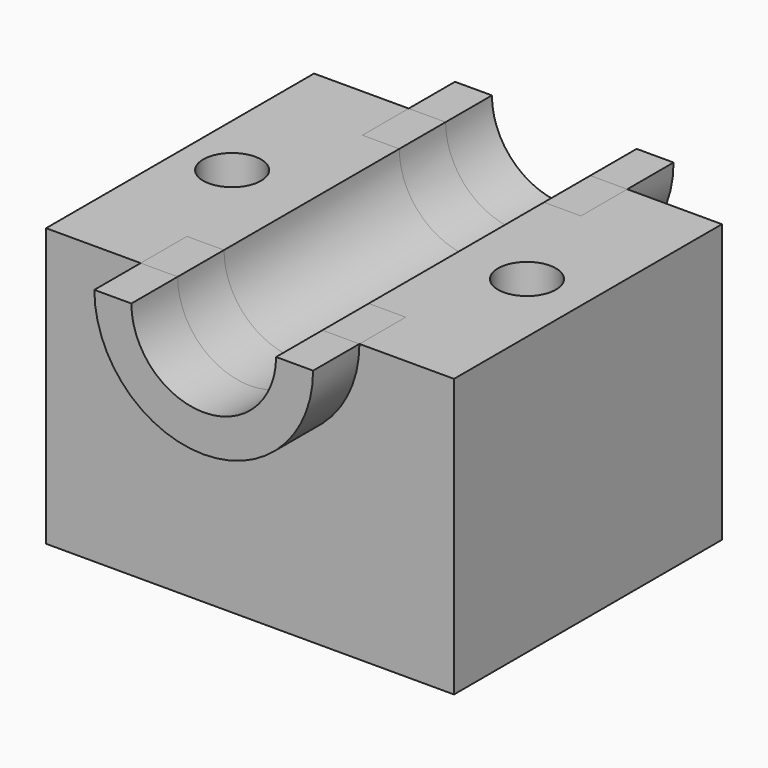
from build123d import *

# Parameters (mm, degrees)
F0_W     = 89.4885361195
F0_H     = 73.4741464257
F1_DEPTH = 60.96
F3_D     = 12.7
F5_D     = 31.75
F7_DEPTH = 12.7
F9_DEPTH = 12.7


with BuildPart() as f1:
    # F0 (on Top) → F1 (new body)
    with BuildSketch(Plane.XY):
        Rectangle(F0_W, F0_H)
    extrude(amount=F1_DEPTH)

    # F3 (through all)
    with Locations(Plane(origin=(0, 0, 0), x_dir=(1, 0, 0), z_dir=(0, 0, -1))):
        with Locations((-33.3142690361, 0), (31.3628092408, 0)):
            Hole(F3_D / 2)

    # F5 (through all)
    with Locations(Plane.XZ.offset(36.7370732129)):
        with Locations((0, 60.96)):
            Hole(F5_D / 2)

    # F6 (on face) → F7 (join, symmetric)
    with BuildSketch(Plane.XZ.offset(36.7370732129)):
        with BuildLine():
            Line((-15.875, 60.96), (-23.9956887367, 60.96))
            ThreePointArc((-23.9956887367, 60.96), (0, 36.9643112633), (23.9956887367, 60.96))
            Line((23.9956887367, 60.96), (15.875, 60.96))
            ThreePointArc((15.875, 60.96), (0, 45.085), (-15.875, 60.96))
        make_face()
    extrude(amount=F7_DEPTH, both=True)

    # F8 (on face) → F9 (join, symmetric)
    with BuildSketch(Plane(origin=(0, 36.7370732129, 0), x_dir=(-1, 0, 0), z_dir=(0, 1, 0))):
        with BuildLine():
            Line((-15.875, 60.96), (-23.9735442009, 60.96))
            ThreePointArc((-23.9735442009, 60.96), (0, 36.9864557991), (23.9735442009, 60.96))
            Line((23.9735442009, 60.96), (15.875, 60.96))
            ThreePointArc((15.875, 60.96), (0, 45.085), (-15.875, 60.96))
        make_face()
    extrude(amount=F9_DEPTH, both=True)


solid = f1.part
